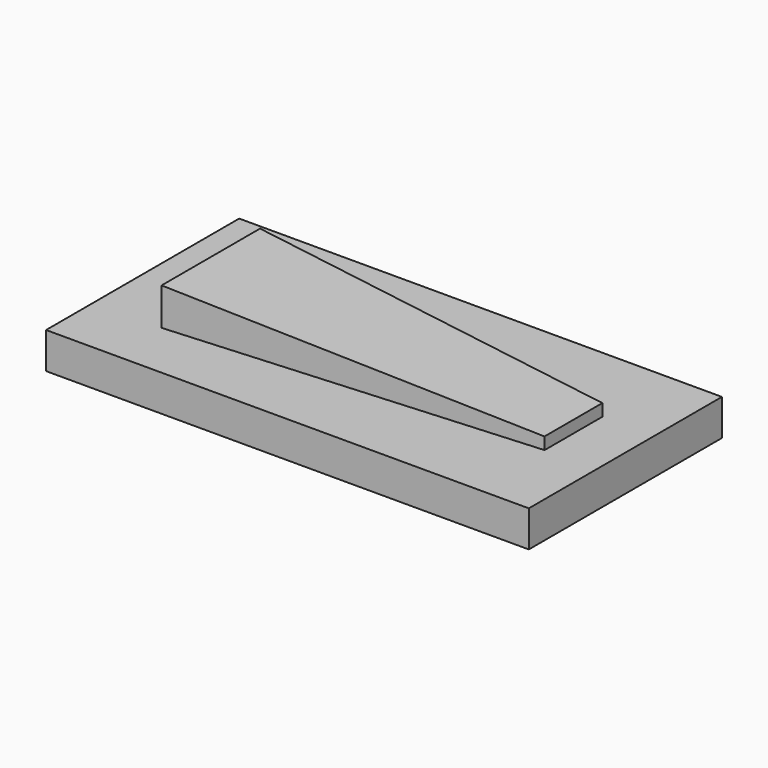
from build123d import *

# Parameters (mm, degrees)
F0_W      = 40
F0_H      = 20
F1_DEPTH  = 3
F2_W      = 0.05
F2_H      = 6
F3_DEPTH  = 1
F3_FACE_W = 6
F3_FACE_H = 1
F4_DEPTH  = 30
F4_TAPER  = -4


with BuildPart() as f1:
    # F0 (on Top) → F1 (new body)
    with BuildSketch(Plane.XY):
        Rectangle(F0_W, F0_H)
    extrude(amount=F1_DEPTH)

    # F2 (on face) → F3 (join)
    with BuildSketch(Plane.XY.offset(3)):
        with Locations((15.67463018, 0)):
            Rectangle(F2_W, F2_H)
    extrude(amount=F3_DEPTH)

    # F3_face (on face) → F4 (join)
    with BuildSketch(Plane(origin=(15.64963018, 0, 3.5), x_dir=(0, -1, 0), z_dir=(-1, 0, 0))):
        Rectangle(F3_FACE_W, F3_FACE_H)
    extrude(amount=F4_DEPTH, taper=F4_TAPER)


solid = f1.part
